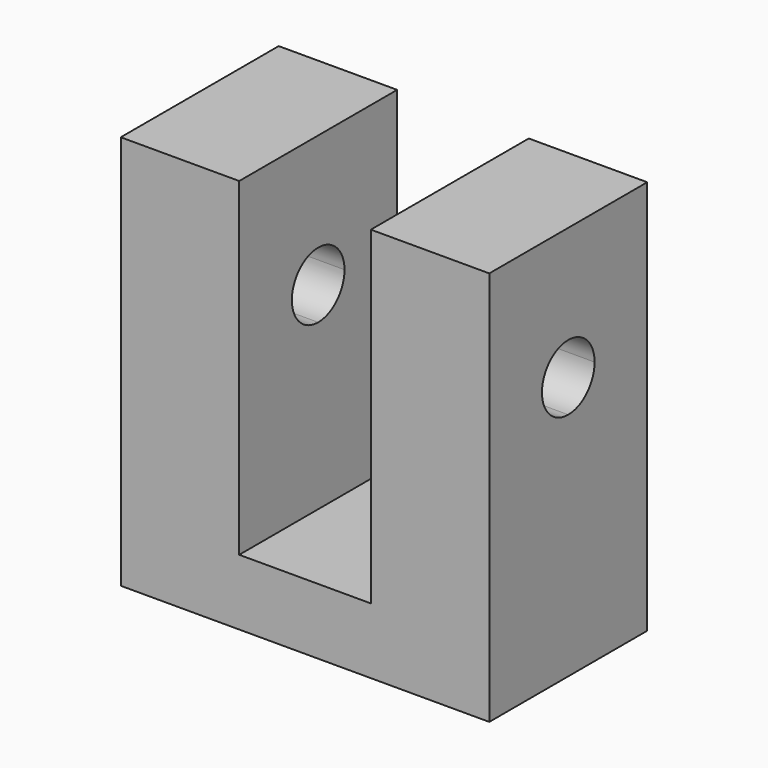
from build123d import *

# Parameters (mm, degrees)
F0_W     = 1.4
F0_H     = 1.5
F1_DEPTH = 0.75
F3_DEPTH = 25
F4_W     = 0.5
F4_H     = 1.25
F5_DEPTH = 25
F6_R     = 0.125
F7_DEPTH = 0.5


with BuildPart() as f1:
    # F0 (on Front) → F1 (new body)
    with BuildSketch(Plane.XZ):
        with Locations((0.7, -0.75)):
            Rectangle(F0_W, F0_H)
        with Locations((0.7, -0.75)):
            Rectangle(F0_W, F0_H)
    extrude(amount=F1_DEPTH)

    # F2 (on face) → F3 (cut)
    with BuildSketch(Plane.YZ.offset(1.4)):
        with BuildLine():
            ThreePointArc((-0.375, -0.625), (-0.286612, -0.588388), (-0.25, -0.5))
            ThreePointArc((-0.25, -0.5), (-0.463388, -0.411612), (-0.375, -0.625))
        make_face()
    extrude(amount=-F3_DEPTH, mode=Mode.SUBTRACT)

    # F4 (on face) → F5 (cut)
    with BuildSketch(Plane.XZ.offset(0.75)):
        with Locations((0.7, -0.625)):
            Rectangle(F4_W, F4_H)
    extrude(amount=-F5_DEPTH, mode=Mode.SUBTRACT)

    # F6 (on face) → F7 (cut)
    with BuildSketch(Plane(origin=(0, 0, -1.5), x_dir=(1, 0, 0), z_dir=(0, 0, -1))):
        with Locations((0.188, 0.5)):
            Circle(F6_R)
        with Locations((1.212, 0.5)):
            Circle(F6_R)
        with Locations((0.188, 0.5)):
            Circle(F6_R)
    extrude(amount=-F7_DEPTH, mode=Mode.SUBTRACT)


solid = f1.part
